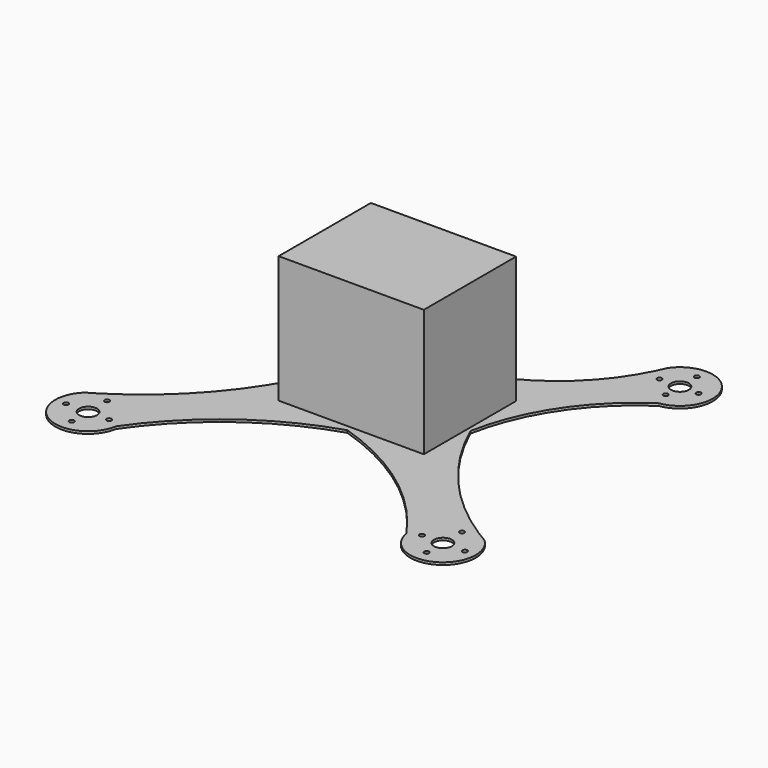
from build123d import *

# Parameters (mm, degrees)
F0_R     = 12.7
F0_R_2   = 6.35
F1_DEPTH = 6.35
F2_W     = 384.192481637
F2_H     = 305.0564825535
F3_DEPTH = 342.9


with BuildPart() as f1:
    # F0 (on Top) → F1 (new body)
    with BuildSketch(Plane.XY):
        Polygon((0, 20.4046759754), (0, 99.420234561), (-200.6414681673, 99.420234561), (-200.6414681673, -93.7068536878), (-200.6414681673, -249.9808818102), (0, -249.9808818102), (0, -172.3671704531), (-84.5718756318, -172.3671704531), (-84.5718756318, 20.4046759754), align=None)
        with Locations((-149.8414681673, -186.0281676054)):
            Circle(F0_R, mode=Mode.SUBTRACT)
        with Locations((-149.8410850763, 35.5835556984)):
            Circle(F0_R, mode=Mode.SUBTRACT)
        with BuildLine():
            ThreePointArc((528.9263289283, -457.4688246387), (513.3995365217, -448.3073763574), (498.0855940313, -438.7944071863))
            ThreePointArc((498.0855940313, -438.7944071863), (450.3295426137, -436.1242750207), (408.4167574662, -459.1696323397))
            ThreePointArc((408.4167574662, -459.1696323397), (386.971113082, -494.1413749169), (383.9916826006, -535.0566707847))
            ThreePointArc((383.9916826006, -535.0566707847), (476.7448379257, -607.1755616667), (556.3054700156, -520.7210183144))
            ThreePointArc((556.3054700156, -520.7210183144), (549.1669902089, -486.2592374134), (528.9263289283, -457.4688246387))
        make_face()
        with Locations((413.9536619186, -520.7210183144)):
            Circle(F0_R_2, mode=Mode.SUBTRACT)
        with Locations((469.5522487164, -574.6076107025)):
            Circle(F0_R_2, mode=Mode.SUBTRACT)
        with BuildLine():
            ThreePointArc((493.1213777738, -520.7210183144), (460.4958391633, -542.4807354663), (452.9429486617, -503.9987279144))
            ThreePointArc((452.9429486617, -503.9987279144), (478.6086582694, -498.9613011624), (493.1213777738, -520.7210183144))
        make_face(mode=Mode.SUBTRACT)
        with Locations((527.7953147888, -520.7210183144)):
            Circle(F0_R_2, mode=Mode.SUBTRACT)
        with Locations((469.5522487164, -457.730203867)):
            Circle(F0_R_2, mode=Mode.SUBTRACT)
        with BuildLine():
            ThreePointArc((498.0855940313, -438.7944071863), (323.9779289887, -288.1314492402), (200.6414681673, -93.7068536878))
            Line((200.6414681673, -93.7068536878), (200.6414681673, -249.9808818102))
            Line((200.6414681673, -249.9808818102), (408.4167574662, -459.1696323397))
            ThreePointArc((408.4167574662, -459.1696323397), (450.3295426137, -436.1242750207), (498.0855940313, -438.7944071863))
        make_face()
        Polygon((200.6414681673, 99.420234561), (0, 99.420234561), (0, 20.4046759754), (84.5718756318, 20.4046759754), (84.5718756318, -172.3671704531), (0, -172.3671704531), (0, -249.9808818102), (200.6414681673, -249.9808818102), (200.6414681673, -93.7068536878), align=None)
        with Locations((149.8414681673, -186.0281676054)):
            Circle(F0_R, mode=Mode.SUBTRACT)
        with Locations((149.8410850763, 35.5835556984)):
            Circle(F0_R, mode=Mode.SUBTRACT)
        with BuildLine():
            Line((355.8921389085, 267.9402017142), (200.6414681673, 99.420234561))
            Line((200.6414681673, 99.420234561), (200.6414681673, -93.7068536878))
            ThreePointArc((200.6414681673, -93.7068536878), (279.3415917253, 99.1204583435), (427.1100518471, 245.8874979214))
            ThreePointArc((427.1100518471, 245.8874979214), (389.0113531334, 248.873373327), (355.8921389085, 267.9402017142))
        make_face()
        with BuildLine():
            ThreePointArc((330.8906401246, 354.2550166966), (195.3973793112, 187.9463252543), (0, 99.420234561))
            Line((0, 99.420234561), (200.6414681673, 99.420234561))
            Line((200.6414681673, 99.420234561), (355.8921389085, 267.9402017142))
            ThreePointArc((355.8921389085, 267.9402017142), (331.3444814273, 307.6081646876), (330.8906401246, 354.2550166966))
        make_face()
        with BuildLine():
            Line((-200.6414681673, 99.420234561), (0, 99.420234561))
            ThreePointArc((0, 99.420234561), (-195.3973793112, 187.9463252543), (-330.8906401246, 354.2550166966))
            ThreePointArc((-330.8906401246, 354.2550166966), (-328.6653224016, 343.0974003758), (-327.9192726354, 331.7445218563))
            ThreePointArc((-327.9192726354, 331.7445218563), (-335.2196571274, 296.9110877867), (-355.8921389085, 267.9402017142))
            Line((-355.8921389085, 267.9402017142), (-200.6414681673, 99.420234561))
        make_face()
        with BuildLine():
            Line((-200.6414681673, -93.7068536878), (-200.6414681673, 99.420234561))
            Line((-200.6414681673, 99.420234561), (-355.8921389085, 267.9402017142))
            ThreePointArc((-355.8921389085, 267.9402017142), (-389.0113531334, 248.873373327), (-427.1100518471, 245.8874979214))
            ThreePointArc((-427.1100518471, 245.8874979214), (-279.3415917253, 99.1204583435), (-200.6414681673, -93.7068536878))
        make_face()
        with BuildLine():
            Line((-200.6414681673, -249.9808818102), (-200.6414681673, -93.7068536878))
            ThreePointArc((-200.6414681673, -93.7068536878), (-323.9779289887, -288.1314492402), (-498.0855940313, -438.7944071863))
            ThreePointArc((-498.0855940313, -438.7944071863), (-450.3295426137, -436.1242750207), (-408.4167574662, -459.1696323397))
            Line((-408.4167574662, -459.1696323397), (-200.6414681673, -249.9808818102))
        make_face()
        with BuildLine():
            ThreePointArc((-408.4167574662, -459.1696323397), (-450.3295426137, -436.1242750207), (-498.0855940313, -438.7944071863))
            ThreePointArc((-498.0855940313, -438.7944071863), (-513.3995365217, -448.3073763574), (-528.9263289283, -457.4688246387))
            ThreePointArc((-528.9263289283, -457.4688246387), (-510.4961307794, -597.2044801045), (-383.9916826006, -535.0566707847))
            ThreePointArc((-383.9916826006, -535.0566707847), (-383.097705364, -527.9136075237), (-382.7990274171, -520.7210183144))
            ThreePointArc((-382.7990274171, -520.7210183144), (-389.4591085374, -487.3861971499), (-408.4167574662, -459.1696323397))
        make_face()
        with Locations((-469.5522487164, -574.6076107025)):
            Circle(F0_R_2, mode=Mode.SUBTRACT)
        with Locations((-527.7953147888, -520.7210183144)):
            Circle(F0_R_2, mode=Mode.SUBTRACT)
        with BuildLine():
            ThreePointArc((-445.9831196589, -520.7210183144), (-491.3119658683, -529.7774278674), (-452.9429486617, -503.9987279144))
            ThreePointArc((-452.9429486617, -503.9987279144), (-447.7925315644, -511.6646087613), (-445.9831196589, -520.7210183144))
        make_face(mode=Mode.SUBTRACT)
        with Locations((-413.9536619186, -520.7210183144)):
            Circle(F0_R_2, mode=Mode.SUBTRACT)
        with Locations((-469.5522487164, -457.730203867)):
            Circle(F0_R_2, mode=Mode.SUBTRACT)
        with BuildLine():
            ThreePointArc((342.2890075184, 379.5645208111), (336.7772209347, 366.8253727446), (330.8906401246, 354.2550166966))
            ThreePointArc((330.8906401246, 354.2550166966), (331.3444814273, 307.6081646876), (355.8921389085, 267.9402017142))
            ThreePointArc((355.8921389085, 267.9402017142), (389.0113531334, 248.873373327), (427.1100518471, 245.8874979214))
            ThreePointArc((427.1100518471, 245.8874979214), (480.2663946412, 274.9681042527), (501.4257152339, 331.7445218563))
            ThreePointArc((501.4257152339, 331.7445218563), (439.6386789688, 414.8276790582), (342.2890075184, 379.5645208111))
        make_face()
        with Locations((414.6724939346, 284.5172584057)):
            Circle(F0_R_2, mode=Mode.SUBTRACT)
        with Locations((360.8275949955, 331.7445218563)):
            Circle(F0_R_2, mode=Mode.SUBTRACT)
        with BuildLine():
            ThreePointArc((438.2416229921, 331.7445218563), (424.1360468818, 310.1587624269), (398.7030376666, 314.4101539409))
            ThreePointArc((398.7030376666, 314.4101539409), (405.2089409875, 353.3302812857), (438.2416229921, 331.7445218563))
        make_face(mode=Mode.SUBTRACT)
        with Locations((414.6724939346, 387.7336978912)):
            Circle(F0_R_2, mode=Mode.SUBTRACT)
        with Locations((464.0439748764, 331.7445218563)):
            Circle(F0_R_2, mode=Mode.SUBTRACT)
        with BuildLine():
            ThreePointArc((-327.9192726354, 331.7445218563), (-328.6653224016, 343.0974003758), (-330.8906401246, 354.2550166966))
            ThreePointArc((-330.8906401246, 354.2550166966), (-336.7772209347, 366.8253727445), (-342.2890075184, 379.5645208111))
            ThreePointArc((-342.2890075184, 379.5645208111), (-487.9238775271, 378.2241540363), (-427.1100518471, 245.8874979214))
            ThreePointArc((-427.1100518471, 245.8874979214), (-389.0113531334, 248.873373327), (-355.8921389085, 267.9402017142))
            ThreePointArc((-355.8921389085, 267.9402017142), (-335.2196571274, 296.9110877867), (-327.9192726354, 331.7445218563))
        make_face()
        with Locations((-414.6724939346, 284.5172584057)):
            Circle(F0_R_2, mode=Mode.SUBTRACT)
        with Locations((-464.0439748764, 331.7445218563)):
            Circle(F0_R_2, mode=Mode.SUBTRACT)
        with BuildLine():
            ThreePointArc((-391.1033648772, 331.7445218563), (-393.0867345053, 322.2809689092), (-398.7030376666, 314.4101539409))
            ThreePointArc((-398.7030376666, 314.4101539409), (-436.258253364, 341.2080748035), (-391.1033648772, 331.7445218563))
        make_face(mode=Mode.SUBTRACT)
        with Locations((-360.8275949955, 331.7445218563)):
            Circle(F0_R_2, mode=Mode.SUBTRACT)
        with Locations((-414.6724939346, 387.7336978912)):
            Circle(F0_R_2, mode=Mode.SUBTRACT)
        with BuildLine():
            ThreePointArc((-383.9916826006, -535.0566707847), (-215.6935374643, -360.5984288821), (0, -249.9808818102))
            Line((0, -249.9808818102), (-200.6414681673, -249.9808818102))
            Line((-200.6414681673, -249.9808818102), (-408.4167574662, -459.1696323397))
            ThreePointArc((-408.4167574662, -459.1696323397), (-389.4591085374, -487.3861971499), (-382.7990274171, -520.7210183144))
            ThreePointArc((-382.7990274171, -520.7210183144), (-383.097705364, -527.9136075237), (-383.9916826006, -535.0566707847))
        make_face()
        with BuildLine():
            Line((408.4167574662, -459.1696323397), (200.6414681673, -249.9808818102))
            Line((200.6414681673, -249.9808818102), (0, -249.9808818102))
            ThreePointArc((0, -249.9808818102), (215.6935374643, -360.5984288821), (383.9916826006, -535.0566707847))
            ThreePointArc((383.9916826006, -535.0566707847), (386.971113082, -494.1413749169), (408.4167574662, -459.1696323397))
        make_face()
    extrude(amount=F1_DEPTH)

    # F2 (on Top) → F3 (join)
    with BuildSketch(Plane.XY):
        with Locations((-1.2763813138, -83.0007791519)):
            Rectangle(F2_W, F2_H)
    extrude(amount=F3_DEPTH)


solid = f1.part
